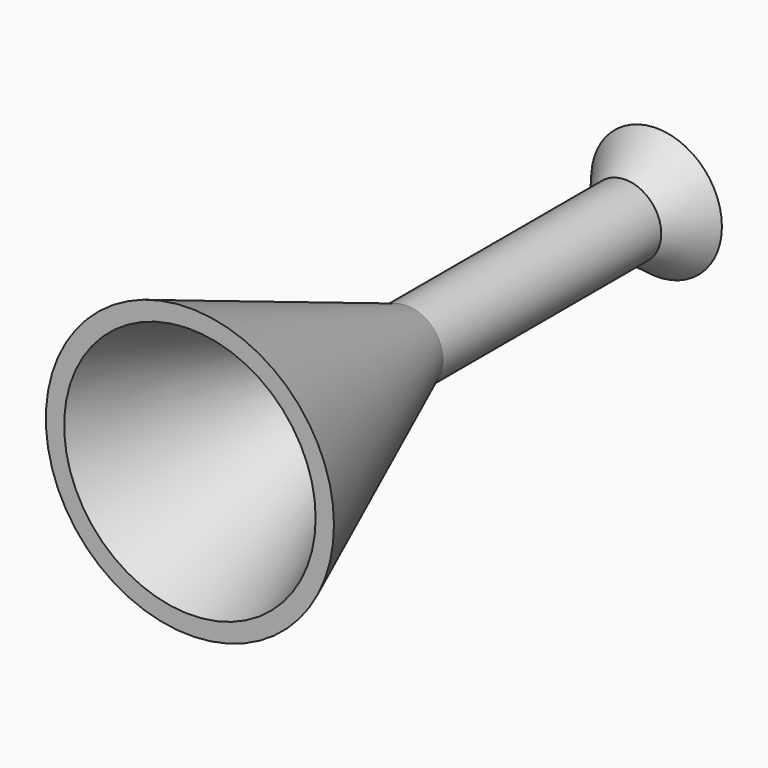
from build123d import *

# Parameters (mm, degrees)
F2_T = -2.54


with BuildPart() as f1:
    # F0 (on Top) → F1 (revolve)
    with BuildSketch(Plane.XY):
        Polygon((4.2993584648, 51.5922941267), (0, 51.5922941267), (0, -40.4768809676), (21.4967876673, -40.4768809676), (5.3731477842, 0), (5.3731477842, 40.7201629721), (9.7522018477, 46.5588979423), (6.3966065645, 49.0755960345), align=None)
    revolve(axis=Axis((0, 5.5577065796, 0), (0, 1, 0)))

    # F2
    f2_openings = [f1.faces().sort_by_distance(p)[0] for p in [
        (0, -40.476881, 0),
    ]]
    offset(amount=F2_T, openings=f2_openings, kind=Kind.INTERSECTION)


solid = f1.part
